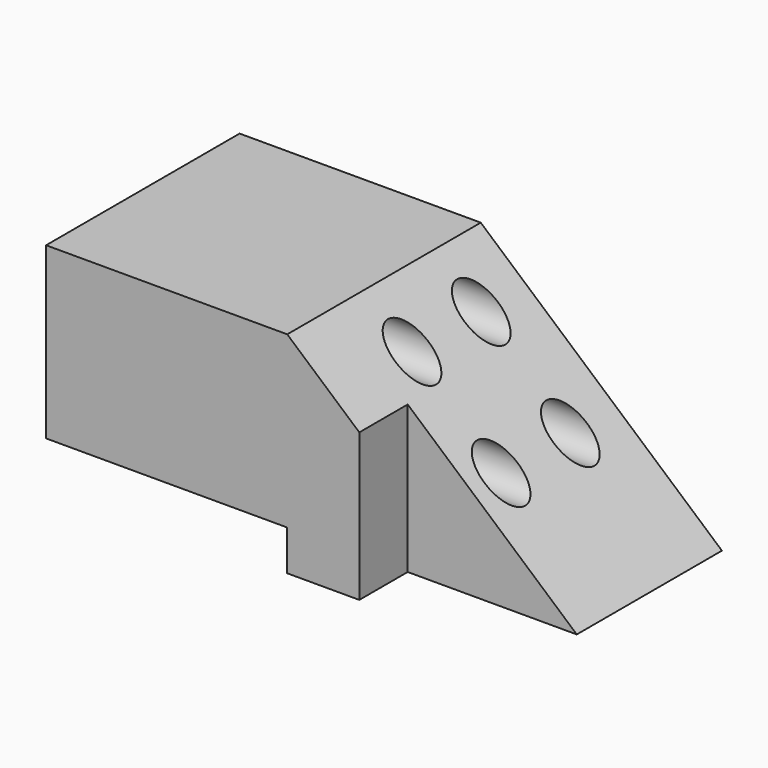
from build123d import *

# Parameters (mm, degrees)
F1_DEPTH = 38.1
F3_DEPTH = 19.05
F4_R     = 6.6122304169
F5_DEPTH = 254


with BuildPart() as f1:
    # F0 (on Front) → F1 (new body, symmetric)
    with BuildSketch(Plane.XZ):
        Polygon((0, -33.1354551017), (75.9690925479, -33.1354551017), (0, 33.1354551017), (-75.9690925479, 33.1354551017), (-75.9690925479, -20.4354561865), (0, -20.4354561865), align=None)
    extrude(amount=F1_DEPTH, both=True)

    # F2 (on face) → F3 (cut)
    with BuildSketch(Plane.XZ.offset(38.1)):
        Polygon((22.7042404154, -33.1354551017), (75.9690925479, -33.1354551017), (22.7042404154, 13.3296284511), align=None)
    extrude(amount=-F3_DEPTH, mode=Mode.SUBTRACT)

    # F4 (on face) → F5 (cut)
    with BuildSketch(Plane(origin=(-75.9690925479, 0, 0), x_dir=(0, -1, 0), z_dir=(-1, 0, 0))):
        with Locations((7.1581806988, 20.4354561865)):
            Circle(F4_R)
        with Locations((-20.0890917331, -4.0409089997)):
            Circle(F4_R)
        with Locations((7.1581806988, -4.0409089997)):
            Circle(F4_R)
        with Locations((-20.0890917331, 20.4354561865)):
            Circle(F4_R)
    extrude(amount=-F5_DEPTH, mode=Mode.SUBTRACT)


solid = f1.part
